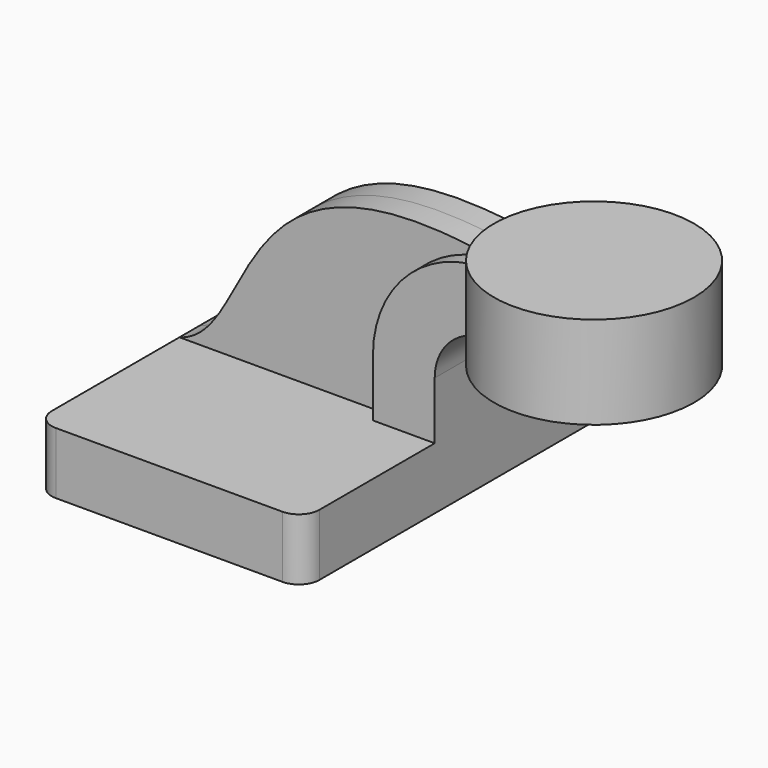
from build123d import *

# Parameters (mm, degrees)
F1_DEPTH = 63.5
F2_DEPTH = 12.7
F3_DEPTH = 7.9375
F0_W     = 30.857466
F0_H     = 28.575
F5_R     = 6.35


with BuildPart() as f1:
    # F0 (on Front) → F1 (new body, symmetric)
    with BuildSketch(Plane.XZ):
        Polygon((41.275, -9.525), (41.275, 9.525), (22.225, 9.525), (-41.275, 9.525), (-41.275, -9.525), align=None)
    extrude(amount=F1_DEPTH, both=True)

    # F0 (on Front) → F2 (join, symmetric)
    with BuildSketch(Plane.XZ):
        Polygon((60.325, 62.183225), (60.325, 43.133225), (60.325, 38.1), (80.267534, 38.1), (80.267534, 66.675), (60.325, 66.675), align=None)
        with BuildLine():
            Line((22.225, 9.525), (41.275, 9.525))
            Line((41.275, 9.525), (41.275, 27.258225))
            ThreePointArc((41.275, 27.258225), (45.92468, 38.483545), (57.15, 43.133225))
            Line((57.15, 43.133225), (60.325, 43.133225))
            Line((60.325, 43.133225), (60.325, 62.183225))
            Line((60.325, 62.183225), (57.15, 62.183225))
            ThreePointArc((57.15, 62.183225), (32.454296, 51.953929), (22.225, 27.258225))
            Line((22.225, 27.258225), (22.225, 9.525))
        make_face()
    extrude(amount=F2_DEPTH, both=True)

    # F0 (on Front) → F3 (join, symmetric)
    with BuildSketch(Plane.XZ):
        with BuildLine():
            Line((-41.275, 9.525), (22.225, 9.525))
            Line((22.225, 9.525), (22.225, 27.258225))
            ThreePointArc((22.225, 27.258225), (32.454296, 51.953929), (57.15, 62.183225))
            add(Edge.make_bspline(
                [(-41.275, 9.525), (-16.467026, 16.406592), (-27.628707, 77.485785), (57.15, 62.183225)],
                knots=[0, 0, 0, 0, 111.626024, 111.626024, 111.626024, 111.626024], degree=3))
        make_face()
    extrude(amount=F3_DEPTH, both=True)

    # F0 (on Front) → F4 (revolve)
    with BuildSketch(Plane.XZ):
        with Locations((95.696267, 52.3875)):
            Rectangle(F0_W, F0_H)
    revolve(axis=Axis((80.267534, 0, 52.3875), (0, 0, 1)))

    # F5
    f5_edges = [f1.edges().sort_by_distance(p)[0] for p in [
        (-41.275, -63.5, 0),
        (41.275, -63.5, 0),
        (41.275, 63.5, 0),
        (-41.275, 63.5, 0),
    ]]
    fillet(f5_edges, radius=F5_R)


solid = f1.part
